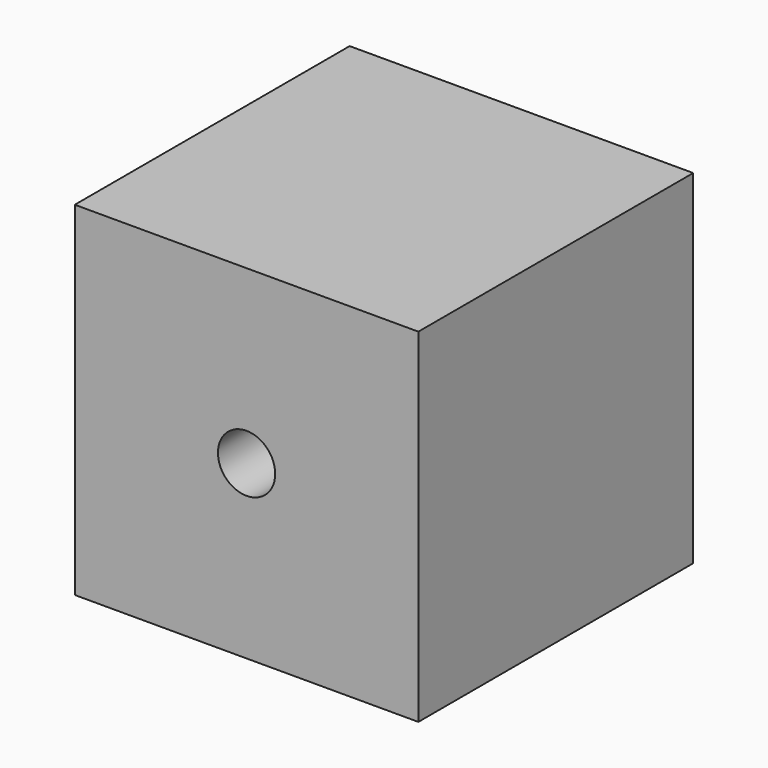
from build123d import *

# Parameters (mm, degrees)
F0_W     = 152.4
F0_H     = 152.4
F0_R     = 12.7
F1_DEPTH = 152.4
F2_DEPTH = 152.4


with BuildPart() as f1:
    # F0 (on Front) → F1 (new body)
    with BuildSketch(Plane.XZ):
        Rectangle(F0_W, F0_H)
        Circle(F0_R, mode=Mode.SUBTRACT)
    extrude(amount=F1_DEPTH)

    # F0 (on Front) → F2 (cut)
    with BuildSketch(Plane.XZ):
        Rectangle(F0_W, F0_H)
        Circle(F0_R, mode=Mode.SUBTRACT)
    extrude(amount=-F2_DEPTH, mode=Mode.SUBTRACT)


solid = f1.part
